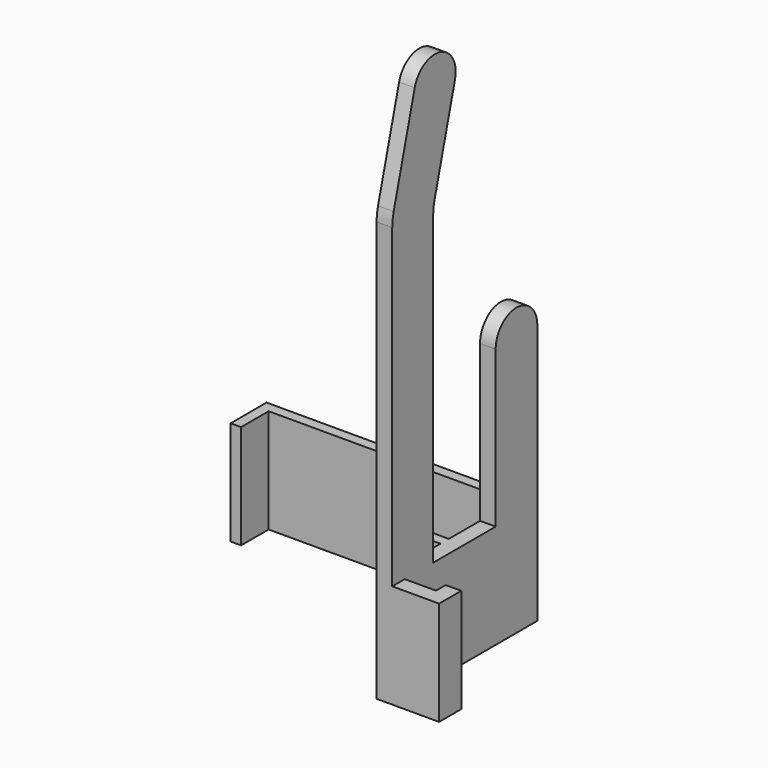
from build123d import *

# Parameters (mm, degrees)
F1_DEPTH = 3
F2_W     = 2
F2_H     = 3
F3_DEPTH = 20
F4_ANGLE = -90


with BuildPart() as f1:
    # F0 (on Top) → F1 (new body)
    with BuildSketch(Plane.XY):
        with BuildLine():
            Line((29.811265, 0), (-28.87221, 0))
            ThreePointArc((-28.87221, 0), (-30.177472, 0.085551), (-31.460401, 0.340742))
            Line((-31.460401, 0.340742), (-49.703157, 5.228874))
            ThreePointArc((-49.703157, 5.228874), (-55.826882, 1.69334), (-52.291348, -4.430385))
            Line((-52.291348, -4.430385), (-33.412757, -9.488888))
            ThreePointArc((-33.412757, -9.488888), (-32.129829, -9.744078), (-30.824567, -9.82963))
            Line((-30.824567, -9.82963), (49.811265, -9.82963))
            Line((49.811265, -9.82963), (49.811265, 25))
            Line((49.811265, 25), (-0.188735, 25))
            ThreePointArc((-0.188735, 25), (-5.188735, 20), (-0.188735, 15))
            Line((-0.188735, 15), (29.811265, 15))
            Line((29.811265, 15), (29.811265, 0))
        make_face()
    extrude(amount=F1_DEPTH)

    # F2 (on face) → F3 (join, through all)
    with BuildSketch(Plane.YZ.offset(49.811265)):
        Polygon((25, -49), (25, 0), (23, 0), (23, -47), (16.384248, -47), (16.384248, -49), align=None)
        with Locations((6.5, -1.5)):
            Rectangle(F2_W, F2_H)
        Polygon((-9.82963, 3), (-6.82963, 3), (-6.82963, 9), (-4.501271, 9), (-4.501271, 12), (-9.82963, 12), align=None)
    extrude(amount=-F3_DEPTH)


with BuildPart() as f1_1:
    # F4: moved
    add(f1.part.rotate(Axis((49.811265, 9.085185, 3), (0, -1, 0)), F4_ANGLE))


solid = f1_1.part
